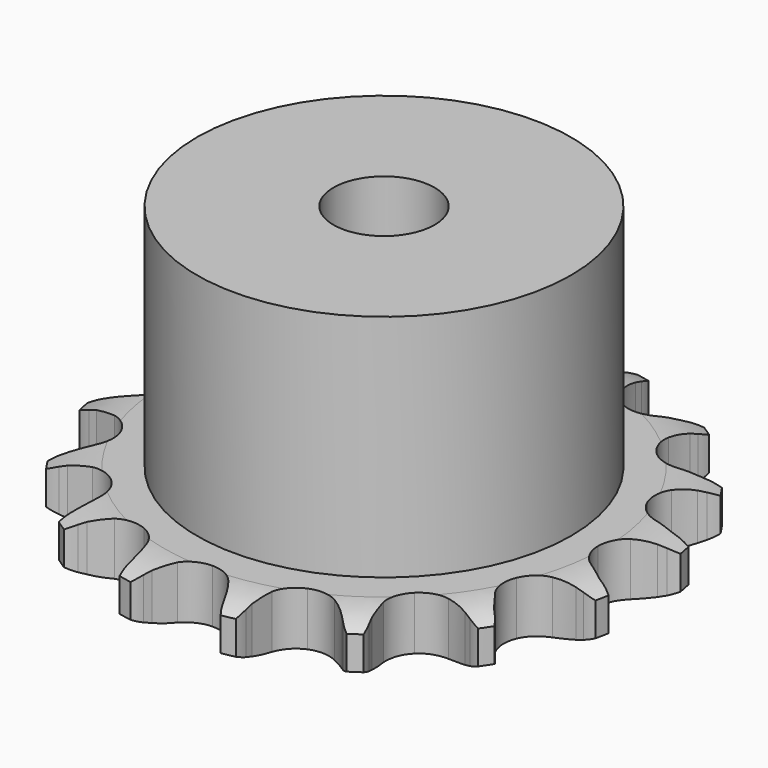
from build123d import *

# Parameters (mm, degrees)
PAD_DEPTH         = 5.3
SKETCH001_R       = 18.5
PAD001_DEPTH      = 28
SKETCH002_R       = 5
POCKET_DEPTH      = 0.001
POCKET_DEPTH_BACK = -28.001


with BuildPart() as part:
    # Sprocket → Pad (new body)
    with BuildSketch(Plane.XY):
        with BuildLine():
            ThreePointArc((-5.310667, 26.698526), (-4.508273, 25.848464), (-3.912951, 24.842466))
            Line((-3.912951, 24.842466), (-3.613995, 24.178808))
            ThreePointArc((-3.613995, 24.178808), (-3.122753, 23.250033), (-2.518227, 22.390678))
            ThreePointArc((-2.518227, 22.390678), (-1.396465, 21.500384), (0, 21.182795))
            ThreePointArc((0, 21.182795), (1.396465, 21.500384), (2.518227, 22.390678))
            ThreePointArc((2.518227, 22.390678), (3.122753, 23.250033), (3.613995, 24.178808))
            Line((3.613995, 24.178808), (3.912951, 24.842466))
            ThreePointArc((3.912951, 24.842466), (4.508273, 25.848464), (5.310667, 26.698526))
            ThreePointArc((5.310667, 26.698526), (5.726678, 25.606108), (5.891705, 24.448867))
            Line((5.891705, 24.448867), (5.913933, 23.721322))
            ThreePointArc((5.913933, 23.721322), (6.012355, 22.675256), (6.242003, 21.649973))
            ThreePointArc((6.242003, 21.649973), (6.937676, 20.398169), (8.106305, 19.57035))
            ThreePointArc((8.106305, 19.57035), (9.518006, 19.329361), (10.895081, 19.722606))
            Line((10.895081, 19.722606), (12.591725, 20.95529))
            ThreePointArc((12.591725, 20.95529), (12.851346, 21.210465), (13.121895, 21.454024))
            ThreePointArc((13.121895, 21.454024), (14.05688, 22.155625), (15.1235, 22.633917))
            ThreePointArc((15.1235, 22.633917), (15.089794, 21.465455), (14.799402, 20.33315))
            Line((14.799402, 20.33315), (14.541519, 19.65248))
            ThreePointArc((14.541519, 19.65248), (14.232137, 18.648376), (14.051945, 17.613256))
            ThreePointArc((14.051945, 17.613256), (14.215618, 16.190517), (14.978498, 14.978498))
            ThreePointArc((14.978498, 14.978498), (16.190517, 14.215618), (17.613256, 14.051945))
            Line((17.613256, 14.051945), (19.65248, 14.541519))
            ThreePointArc((19.65248, 14.541519), (19.989989, 14.677918), (20.33315, 14.799402))
            ThreePointArc((20.33315, 14.799402), (21.465455, 15.089794), (22.633917, 15.1235))
            ThreePointArc((22.633917, 15.1235), (22.155625, 14.05688), (21.454024, 13.121895))
            Line((21.454024, 13.121895), (20.95529, 12.591725))
            ThreePointArc((20.95529, 12.591725), (20.285204, 11.78245), (19.722606, 10.895081))
            ThreePointArc((19.722606, 10.895081), (19.329361, 9.518006), (19.57035, 8.106305))
            ThreePointArc((19.57035, 8.106305), (20.398169, 6.937676), (21.649973, 6.242003))
            Line((21.649973, 6.242003), (23.721322, 5.913933))
            ThreePointArc((23.721322, 5.913933), (24.085338, 5.91079), (24.448867, 5.891705))
            ThreePointArc((24.448867, 5.891705), (25.606108, 5.726678), (26.698526, 5.310667))
            ThreePointArc((26.698526, 5.310667), (25.848464, 4.508273), (24.842466, 3.912951))
            Line((24.842466, 3.912951), (24.178808, 3.613995))
            ThreePointArc((24.178808, 3.613995), (23.250033, 3.122753), (22.390678, 2.518227))
            ThreePointArc((22.390678, 2.518227), (21.500384, 1.396465), (21.182795, 0))
            ThreePointArc((21.182795, 0), (21.500384, -1.396465), (22.390678, -2.518227))
            Line((22.390678, -2.518227), (24.178808, -3.613995))
            ThreePointArc((24.178808, -3.613995), (24.513912, -3.756202), (24.842466, -3.912951))
            ThreePointArc((24.842466, -3.912951), (25.848464, -4.508273), (26.698526, -5.310667))
            ThreePointArc((26.698526, -5.310667), (25.606108, -5.726678), (24.448867, -5.891705))
            Line((24.448867, -5.891705), (23.721322, -5.913933))
            ThreePointArc((23.721322, -5.913933), (22.675256, -6.012355), (21.649973, -6.242003))
            ThreePointArc((21.649973, -6.242003), (20.398169, -6.937676), (19.57035, -8.106305))
            ThreePointArc((19.57035, -8.106305), (19.329361, -9.518006), (19.722606, -10.895081))
            Line((19.722606, -10.895081), (20.95529, -12.591725))
            ThreePointArc((20.95529, -12.591725), (21.210465, -12.851346), (21.454024, -13.121895))
            ThreePointArc((21.454024, -13.121895), (22.155625, -14.05688), (22.633917, -15.1235))
            ThreePointArc((22.633917, -15.1235), (21.465455, -15.089794), (20.33315, -14.799402))
            Line((20.33315, -14.799402), (19.65248, -14.541519))
            ThreePointArc((19.65248, -14.541519), (18.648376, -14.232137), (17.613256, -14.051945))
            ThreePointArc((17.613256, -14.051945), (16.190517, -14.215618), (14.978498, -14.978498))
            ThreePointArc((14.978498, -14.978498), (14.215618, -16.190517), (14.051945, -17.613256))
            Line((14.051945, -17.613256), (14.541519, -19.65248))
            ThreePointArc((14.541519, -19.65248), (14.677918, -19.989989), (14.799402, -20.33315))
            ThreePointArc((14.799402, -20.33315), (15.089794, -21.465455), (15.1235, -22.633917))
            ThreePointArc((15.1235, -22.633917), (14.05688, -22.155625), (13.121895, -21.454024))
            Line((13.121895, -21.454024), (12.591725, -20.95529))
            ThreePointArc((12.591725, -20.95529), (11.78245, -20.285204), (10.895081, -19.722606))
            ThreePointArc((10.895081, -19.722606), (9.518006, -19.329361), (8.106305, -19.57035))
            ThreePointArc((8.106305, -19.57035), (6.937676, -20.398169), (6.242003, -21.649973))
            Line((6.242003, -21.649973), (5.913933, -23.721322))
            ThreePointArc((5.913933, -23.721322), (5.91079, -24.085338), (5.891705, -24.448867))
            ThreePointArc((5.891705, -24.448867), (5.726678, -25.606108), (5.310667, -26.698526))
            ThreePointArc((5.310667, -26.698526), (4.508273, -25.848464), (3.912951, -24.842466))
            Line((3.912951, -24.842466), (3.613995, -24.178808))
            ThreePointArc((3.613995, -24.178808), (3.122753, -23.250033), (2.518227, -22.390678))
            ThreePointArc((2.518227, -22.390678), (1.396465, -21.500384), (0, -21.182795))
            ThreePointArc((0, -21.182795), (-1.396465, -21.500384), (-2.518227, -22.390678))
            Line((-2.518227, -22.390678), (-3.613995, -24.178808))
            ThreePointArc((-3.613995, -24.178808), (-3.756202, -24.513912), (-3.912951, -24.842466))
            ThreePointArc((-3.912951, -24.842466), (-4.508273, -25.848464), (-5.310667, -26.698526))
            ThreePointArc((-5.310667, -26.698526), (-5.726678, -25.606108), (-5.891705, -24.448867))
            Line((-5.891705, -24.448867), (-5.913933, -23.721322))
            ThreePointArc((-5.913933, -23.721322), (-6.012355, -22.675256), (-6.242003, -21.649973))
            ThreePointArc((-6.242003, -21.649973), (-6.937676, -20.398169), (-8.106305, -19.57035))
            ThreePointArc((-8.106305, -19.57035), (-9.518006, -19.329361), (-10.895081, -19.722606))
            Line((-10.895081, -19.722606), (-12.591725, -20.95529))
            ThreePointArc((-12.591725, -20.95529), (-12.851346, -21.210465), (-13.121895, -21.454024))
            ThreePointArc((-13.121895, -21.454024), (-14.05688, -22.155625), (-15.1235, -22.633917))
            ThreePointArc((-15.1235, -22.633917), (-15.089794, -21.465455), (-14.799402, -20.33315))
            Line((-14.799402, -20.33315), (-14.541519, -19.65248))
            ThreePointArc((-14.541519, -19.65248), (-14.232137, -18.648376), (-14.051945, -17.613256))
            ThreePointArc((-14.051945, -17.613256), (-14.215618, -16.190517), (-14.978498, -14.978498))
            ThreePointArc((-14.978498, -14.978498), (-16.190517, -14.215618), (-17.613256, -14.051945))
            Line((-17.613256, -14.051945), (-19.65248, -14.541519))
            ThreePointArc((-19.65248, -14.541519), (-19.989989, -14.677918), (-20.33315, -14.799402))
            ThreePointArc((-20.33315, -14.799402), (-21.465455, -15.089794), (-22.633917, -15.1235))
            ThreePointArc((-22.633917, -15.1235), (-22.155625, -14.05688), (-21.454024, -13.121895))
            Line((-21.454024, -13.121895), (-20.95529, -12.591725))
            ThreePointArc((-20.95529, -12.591725), (-20.285204, -11.78245), (-19.722606, -10.895081))
            ThreePointArc((-19.722606, -10.895081), (-19.329361, -9.518006), (-19.57035, -8.106305))
            ThreePointArc((-19.57035, -8.106305), (-20.398169, -6.937676), (-21.649973, -6.242003))
            Line((-21.649973, -6.242003), (-23.721322, -5.913933))
            ThreePointArc((-23.721322, -5.913933), (-24.085338, -5.91079), (-24.448867, -5.891705))
            ThreePointArc((-24.448867, -5.891705), (-25.606108, -5.726678), (-26.698526, -5.310667))
            ThreePointArc((-26.698526, -5.310667), (-25.848464, -4.508273), (-24.842466, -3.912951))
            Line((-24.842466, -3.912951), (-24.178808, -3.613995))
            ThreePointArc((-24.178808, -3.613995), (-23.250033, -3.122753), (-22.390678, -2.518227))
            ThreePointArc((-22.390678, -2.518227), (-21.500384, -1.396465), (-21.182795, 0))
            ThreePointArc((-21.182795, 0), (-21.500384, 1.396465), (-22.390678, 2.518227))
            Line((-22.390678, 2.518227), (-24.178808, 3.613995))
            ThreePointArc((-24.178808, 3.613995), (-24.513912, 3.756202), (-24.842466, 3.912951))
            ThreePointArc((-24.842466, 3.912951), (-25.848464, 4.508273), (-26.698526, 5.310667))
            ThreePointArc((-26.698526, 5.310667), (-25.606108, 5.726678), (-24.448867, 5.891705))
            Line((-24.448867, 5.891705), (-23.721322, 5.913933))
            ThreePointArc((-23.721322, 5.913933), (-22.675256, 6.012355), (-21.649973, 6.242003))
            ThreePointArc((-21.649973, 6.242003), (-20.398169, 6.937676), (-19.57035, 8.106305))
            ThreePointArc((-19.57035, 8.106305), (-19.329361, 9.518006), (-19.722606, 10.895081))
            Line((-19.722606, 10.895081), (-20.95529, 12.591725))
            ThreePointArc((-20.95529, 12.591725), (-21.210465, 12.851346), (-21.454024, 13.121895))
            ThreePointArc((-21.454024, 13.121895), (-22.155625, 14.05688), (-22.633917, 15.1235))
            ThreePointArc((-22.633917, 15.1235), (-21.465455, 15.089794), (-20.33315, 14.799402))
            Line((-20.33315, 14.799402), (-19.65248, 14.541519))
            ThreePointArc((-19.65248, 14.541519), (-18.648376, 14.232137), (-17.613256, 14.051945))
            ThreePointArc((-17.613256, 14.051945), (-16.190517, 14.215618), (-14.978498, 14.978498))
            ThreePointArc((-14.978498, 14.978498), (-14.215618, 16.190517), (-14.051945, 17.613256))
            Line((-14.051945, 17.613256), (-14.541519, 19.65248))
            ThreePointArc((-14.541519, 19.65248), (-14.677918, 19.989989), (-14.799402, 20.33315))
            ThreePointArc((-14.799402, 20.33315), (-15.089794, 21.465455), (-15.1235, 22.633917))
            ThreePointArc((-15.1235, 22.633917), (-14.05688, 22.155625), (-13.121895, 21.454024))
            Line((-13.121895, 21.454024), (-12.591725, 20.95529))
            ThreePointArc((-12.591725, 20.95529), (-11.78245, 20.285204), (-10.895081, 19.722606))
            ThreePointArc((-10.895081, 19.722606), (-9.518006, 19.329361), (-8.106305, 19.57035))
            ThreePointArc((-8.106305, 19.57035), (-6.937676, 20.398169), (-6.242003, 21.649973))
            Line((-6.242003, 21.649973), (-5.913933, 23.721322))
            ThreePointArc((-5.913933, 23.721322), (-5.91079, 24.085338), (-5.891705, 24.448867))
            ThreePointArc((-5.891705, 24.448867), (-5.726678, 25.606108), (-5.310667, 26.698526))
        make_face()
    extrude(amount=PAD_DEPTH)

    # Sketch → Groove (revolve, cut)
    with BuildSketch(Plane.XZ):
        with BuildLine():
            Line((21.791101, 0), (26.15, 0))
            Line((30.508899, 0), (26.15, 0))
            Line((30.508899, 5.3), (30.508899, 0))
            Line((26.15, 5.3), (30.508899, 5.3))
            Line((21.791101, 5.3), (26.15, 5.3))
            ThreePointArc((26.15, 4.3), (24.027169, 5.046794), (21.791101, 5.3))
            Line((26.15, 1), (26.15, 4.3))
            ThreePointArc((21.791101, 0), (24.027169, 0.253206), (26.15, 1))
        make_face()
    revolve(axis=Axis((0, 0, 0), (0, 0, 1)), mode=Mode.SUBTRACT)

    # Sketch001 → Pad001 (join)
    with BuildSketch(Plane.XY):
        Circle(SKETCH001_R)
    extrude(amount=PAD001_DEPTH)

    # Sketch002 → Pocket (cut, two sides)
    with BuildSketch(Plane.XY) as pocket_sk:
        Circle(SKETCH002_R)
    extrude(amount=-POCKET_DEPTH, mode=Mode.SUBTRACT)
    extrude(pocket_sk.sketch, amount=-POCKET_DEPTH_BACK, mode=Mode.SUBTRACT)


solid = part.part
